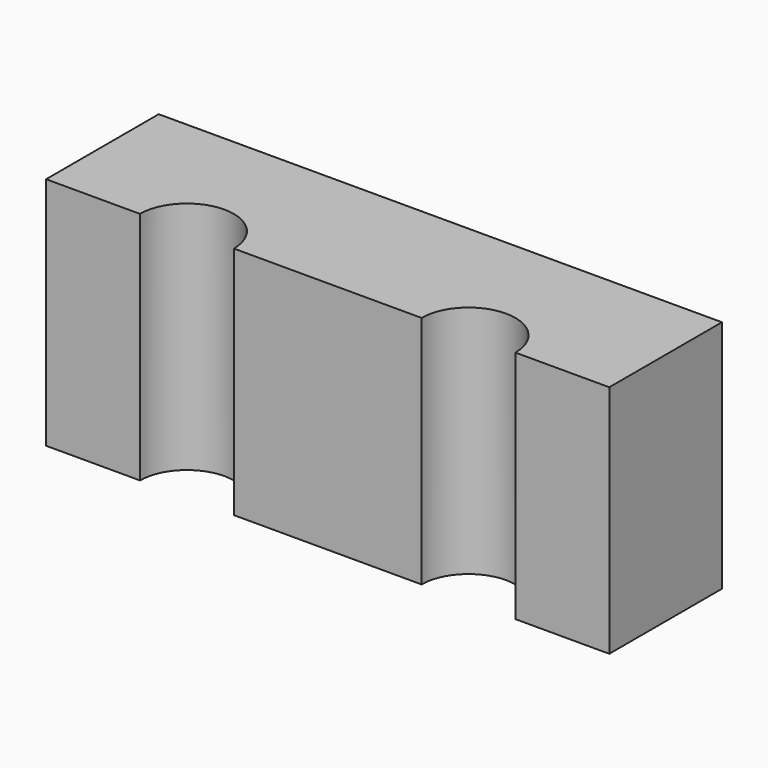
from build123d import *

# Parameters (mm, degrees)
F1_DEPTH = 25


with BuildPart() as f1:
    # F0 (on Top) → F1 (new body)
    with BuildSketch(Plane.XY):
        with BuildLine():
            Line((-5.199284, -16.374299), (-65.199284, -16.374299))
            Line((-65.199284, -16.374299), (-65.199284, -31.374299))
            Line((-65.199284, -31.374299), (-55.199284, -31.374299))
            ThreePointArc((-55.199284, -31.374299), (-50.199284, -26.374299), (-45.199284, -31.374299))
            Line((-45.199284, -31.374299), (-25.199284, -31.374299))
            ThreePointArc((-25.199284, -31.374299), (-20.199284, -26.374299), (-15.199284, -31.374299))
            Line((-15.199284, -31.374299), (-5.199284, -31.374299))
            Line((-5.199284, -31.374299), (-5.199284, -16.374299))
        make_face()
    extrude(amount=F1_DEPTH)


solid = f1.part
